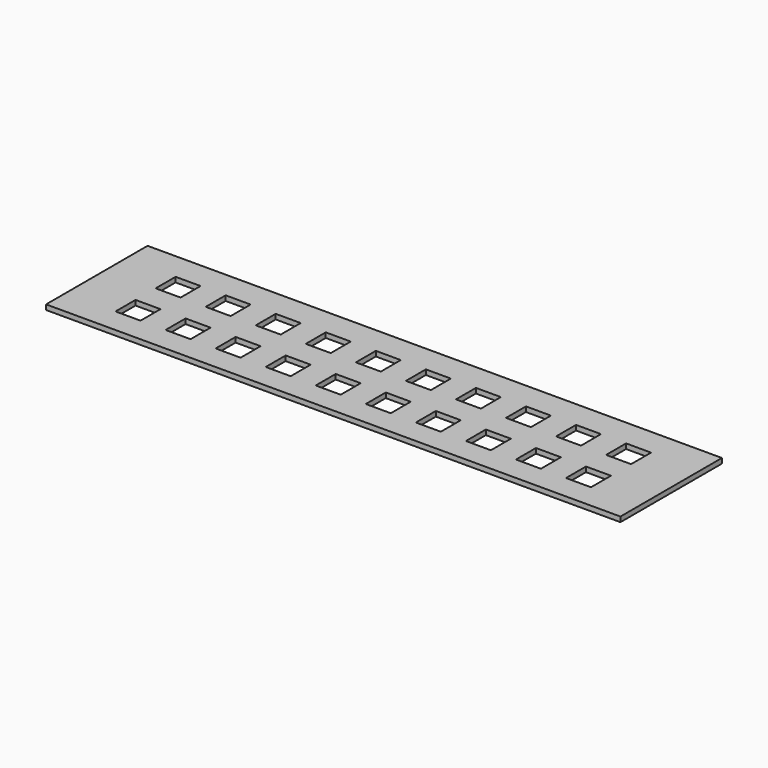
from build123d import *

# Parameters (mm, degrees)
BOX_W              = 115
BOX_H              = 25.4
BOX_DEPTH          = 1
SKETCH_W           = 5
SKETCH_H           = 5
POCKET_DEPTH       = 0.001
POCKET_FACE24_W    = 5
POCKET_FACE24_H    = 5
POCKET001_DEPTH    = 5
POCKET001_FACE12_W = 5
POCKET001_FACE12_H = 5
POCKET002_DEPTH    = 5
POCKET002_FACE17_W = 5
POCKET002_FACE17_H = 5
POCKET003_DEPTH    = 1.001
POCKET003_FACE20_W = 5
POCKET003_FACE20_H = 5
POCKET004_DEPTH    = 5
POCKET004_FACE28_W = 5
POCKET004_FACE28_H = 5
POCKET005_DEPTH    = 5
POCKET005_FACE32_W = 5
POCKET005_FACE32_H = 5
POCKET006_DEPTH    = 5
POCKET006_FACE35_W = 5
POCKET006_FACE35_H = 5
POCKET007_DEPTH    = 5
POCKET007_FACE38_W = 5
POCKET007_FACE38_H = 5
POCKET008_DEPTH    = 5
POCKET008_FACE46_W = 5
POCKET008_FACE46_H = 5
POCKET009_DEPTH    = 5
POCKET009_FACE52_W = 5
POCKET009_FACE52_H = 5
POCKET010_DEPTH    = 5
POCKET010_FACE55_W = 5
POCKET010_FACE55_H = 5
POCKET011_DEPTH    = 5
POCKET011_FACE51_W = 5
POCKET011_FACE51_H = 5
POCKET012_DEPTH    = 5
POCKET012_FACE56_W = 5
POCKET012_FACE56_H = 5
POCKET013_DEPTH    = 5
POCKET013_FACE59_W = 5
POCKET013_FACE59_H = 5
POCKET014_DEPTH    = 5
POCKET014_FACE63_W = 5
POCKET014_FACE63_H = 5
POCKET015_DEPTH    = 5
POCKET015_FACE68_W = 5
POCKET015_FACE68_H = 5
POCKET016_DEPTH    = 5
POCKET016_FACE72_W = 5
POCKET016_FACE72_H = 5
POCKET017_DEPTH    = 5
POCKET017_FACE76_W = 5
POCKET017_FACE76_H = 5
POCKET018_DEPTH    = 5
POCKET018_FACE80_W = 5
POCKET018_FACE80_H = 5
POCKET019_DEPTH    = 5
POCKET019_FACE83_W = 5
POCKET019_FACE83_H = 5
POCKET020_DEPTH    = 115


with BuildPart() as part:
    # Box → Box (new body)
    with BuildSketch(Plane.XY):
        with Locations((57.5, 12.7)):
            Rectangle(BOX_W, BOX_H)
    extrude(amount=BOX_DEPTH)

    # Sketch → Pocket (cut, through all)
    with BuildSketch(Plane.XY):
        with Locations((12.481102, 17.438787)):
            Rectangle(SKETCH_W, SKETCH_H)
        with Locations((22.506832, 17.433556)):
            Rectangle(SKETCH_W, SKETCH_H)
        with Locations((32.532562, 17.428325)):
            Rectangle(SKETCH_W, SKETCH_H)
        with Locations((42.558292, 17.423094)):
            Rectangle(SKETCH_W, SKETCH_H)
        with Locations((52.584022, 17.417863)):
            Rectangle(SKETCH_W, SKETCH_H)
        with Locations((62.609752, 17.412632)):
            Rectangle(SKETCH_W, SKETCH_H)
        with Locations((72.635482, 17.407401)):
            Rectangle(SKETCH_W, SKETCH_H)
        with Locations((82.661212, 17.40217)):
            Rectangle(SKETCH_W, SKETCH_H)
        with Locations((92.686942, 17.396939)):
            Rectangle(SKETCH_W, SKETCH_H)
        with Locations((102.712672, 17.391708)):
            Rectangle(SKETCH_W, SKETCH_H)
        with Locations((12.475871, 7.413057)):
            Rectangle(SKETCH_W, SKETCH_H)
        with Locations((22.501601, 7.407826)):
            Rectangle(SKETCH_W, SKETCH_H)
        with Locations((32.527331, 7.402595)):
            Rectangle(SKETCH_W, SKETCH_H)
        with Locations((42.553061, 7.397364)):
            Rectangle(SKETCH_W, SKETCH_H)
        with Locations((52.578791, 7.392133)):
            Rectangle(SKETCH_W, SKETCH_H)
        with Locations((62.604521, 7.386902)):
            Rectangle(SKETCH_W, SKETCH_H)
        with Locations((72.630251, 7.381671)):
            Rectangle(SKETCH_W, SKETCH_H)
        with Locations((82.655981, 7.37644)):
            Rectangle(SKETCH_W, SKETCH_H)
        with Locations((92.681711, 7.371209)):
            Rectangle(SKETCH_W, SKETCH_H)
        with Locations((102.707441, 7.365978)):
            Rectangle(SKETCH_W, SKETCH_H)
    extrude(amount=-POCKET_DEPTH, mode=Mode.SUBTRACT)

    # Pocket Face24 → Pocket001 (cut)
    with BuildSketch(Plane(origin=(102.712672, 17.391708, 0), x_dir=(0, -1, 0), z_dir=(0, 0, -1))):
        Rectangle(POCKET_FACE24_W, POCKET_FACE24_H)
    extrude(amount=-POCKET001_DEPTH, mode=Mode.SUBTRACT)

    # Pocket001 Face12 → Pocket002 (cut)
    with BuildSketch(Plane(origin=(92.686942, 17.396939, 0), x_dir=(0, -1, 0), z_dir=(0, 0, -1))):
        Rectangle(POCKET001_FACE12_W, POCKET001_FACE12_H)
    extrude(amount=-POCKET002_DEPTH, mode=Mode.SUBTRACT)

    # Pocket002 Face17 → Pocket003 (cut, through all)
    with BuildSketch(Plane(origin=(82.661212, 17.40217, 0), x_dir=(0, -1, 0), z_dir=(0, 0, -1))):
        Rectangle(POCKET002_FACE17_W, POCKET002_FACE17_H)
    extrude(amount=-POCKET003_DEPTH, mode=Mode.SUBTRACT)

    # Pocket003 Face20 → Pocket004 (cut)
    with BuildSketch(Plane(origin=(72.635482, 17.407401, 0), x_dir=(0, -1, 0), z_dir=(0, 0, -1))):
        Rectangle(POCKET003_FACE20_W, POCKET003_FACE20_H)
    extrude(amount=-POCKET004_DEPTH, mode=Mode.SUBTRACT)

    # Pocket004 Face28 → Pocket005 (cut)
    with BuildSketch(Plane(origin=(62.609752, 17.412632, 0), x_dir=(0, -1, 0), z_dir=(0, 0, -1))):
        Rectangle(POCKET004_FACE28_W, POCKET004_FACE28_H)
    extrude(amount=-POCKET005_DEPTH, mode=Mode.SUBTRACT)

    # Pocket005 Face32 → Pocket006 (cut)
    with BuildSketch(Plane(origin=(52.584022, 17.417863, 0), x_dir=(0, -1, 0), z_dir=(0, 0, -1))):
        Rectangle(POCKET005_FACE32_W, POCKET005_FACE32_H)
    extrude(amount=-POCKET006_DEPTH, mode=Mode.SUBTRACT)

    # Pocket006 Face35 → Pocket007 (cut)
    with BuildSketch(Plane(origin=(42.558292, 17.423094, 0), x_dir=(0, -1, 0), z_dir=(0, 0, -1))):
        Rectangle(POCKET006_FACE35_W, POCKET006_FACE35_H)
    extrude(amount=-POCKET007_DEPTH, mode=Mode.SUBTRACT)

    # Pocket007 Face38 → Pocket008 (cut)
    with BuildSketch(Plane(origin=(32.532562, 17.428325, 0), x_dir=(0, -1, 0), z_dir=(0, 0, -1))):
        Rectangle(POCKET007_FACE38_W, POCKET007_FACE38_H)
    extrude(amount=-POCKET008_DEPTH, mode=Mode.SUBTRACT)

    # Pocket008 Face46 → Pocket009 (cut)
    with BuildSketch(Plane(origin=(22.506832, 17.433556, 0), x_dir=(0, -1, 0), z_dir=(0, 0, -1))):
        Rectangle(POCKET008_FACE46_W, POCKET008_FACE46_H)
    extrude(amount=-POCKET009_DEPTH, mode=Mode.SUBTRACT)

    # Pocket009 Face52 → Pocket010 (cut)
    with BuildSketch(Plane(origin=(12.481102, 17.438787, 0), x_dir=(0, -1, 0), z_dir=(0, 0, -1))):
        Rectangle(POCKET009_FACE52_W, POCKET009_FACE52_H)
    extrude(amount=-POCKET010_DEPTH, mode=Mode.SUBTRACT)

    # Pocket010 Face55 → Pocket011 (cut)
    with BuildSketch(Plane(origin=(102.707441, 7.365978, 0), x_dir=(0, -1, 0), z_dir=(0, 0, -1))):
        Rectangle(POCKET010_FACE55_W, POCKET010_FACE55_H)
    extrude(amount=-POCKET011_DEPTH, mode=Mode.SUBTRACT)

    # Pocket011 Face51 → Pocket012 (cut)
    with BuildSketch(Plane(origin=(92.681711, 7.371209, 0), x_dir=(0, -1, 0), z_dir=(0, 0, -1))):
        Rectangle(POCKET011_FACE51_W, POCKET011_FACE51_H)
    extrude(amount=-POCKET012_DEPTH, mode=Mode.SUBTRACT)

    # Pocket012 Face56 → Pocket013 (cut)
    with BuildSketch(Plane(origin=(82.655981, 7.37644, 0), x_dir=(0, -1, 0), z_dir=(0, 0, -1))):
        Rectangle(POCKET012_FACE56_W, POCKET012_FACE56_H)
    extrude(amount=-POCKET013_DEPTH, mode=Mode.SUBTRACT)

    # Pocket013 Face59 → Pocket014 (cut)
    with BuildSketch(Plane(origin=(72.630251, 7.381671, 0), x_dir=(0, -1, 0), z_dir=(0, 0, -1))):
        Rectangle(POCKET013_FACE59_W, POCKET013_FACE59_H)
    extrude(amount=-POCKET014_DEPTH, mode=Mode.SUBTRACT)

    # Pocket014 Face63 → Pocket015 (cut)
    with BuildSketch(Plane(origin=(62.604521, 7.386902, 0), x_dir=(0, -1, 0), z_dir=(0, 0, -1))):
        Rectangle(POCKET014_FACE63_W, POCKET014_FACE63_H)
    extrude(amount=-POCKET015_DEPTH, mode=Mode.SUBTRACT)

    # Pocket015 Face68 → Pocket016 (cut)
    with BuildSketch(Plane(origin=(42.553061, 7.397364, 0), x_dir=(0, -1, 0), z_dir=(0, 0, -1))):
        Rectangle(POCKET015_FACE68_W, POCKET015_FACE68_H)
    extrude(amount=-POCKET016_DEPTH, mode=Mode.SUBTRACT)

    # Pocket016 Face72 → Pocket017 (cut)
    with BuildSketch(Plane(origin=(32.527331, 7.402595, 0), x_dir=(0, -1, 0), z_dir=(0, 0, -1))):
        Rectangle(POCKET016_FACE72_W, POCKET016_FACE72_H)
    extrude(amount=-POCKET017_DEPTH, mode=Mode.SUBTRACT)

    # Pocket017 Face76 → Pocket018 (cut)
    with BuildSketch(Plane(origin=(22.501601, 7.407826, 0), x_dir=(0, -1, 0), z_dir=(0, 0, -1))):
        Rectangle(POCKET017_FACE76_W, POCKET017_FACE76_H)
    extrude(amount=-POCKET018_DEPTH, mode=Mode.SUBTRACT)

    # Pocket018 Face80 → Pocket019 (cut)
    with BuildSketch(Plane(origin=(12.475871, 7.413057, 0), x_dir=(0, -1, 0), z_dir=(0, 0, -1))):
        Rectangle(POCKET018_FACE80_W, POCKET018_FACE80_H)
    extrude(amount=-POCKET019_DEPTH, mode=Mode.SUBTRACT)

    # Pocket019 Face83 → Pocket020 (cut)
    with BuildSketch(Plane(origin=(52.578791, 7.392133, 0), x_dir=(0, -1, 0), z_dir=(0, 0, -1))):
        Rectangle(POCKET019_FACE83_W, POCKET019_FACE83_H)
    extrude(amount=-POCKET020_DEPTH, mode=Mode.SUBTRACT)


solid = part.part
